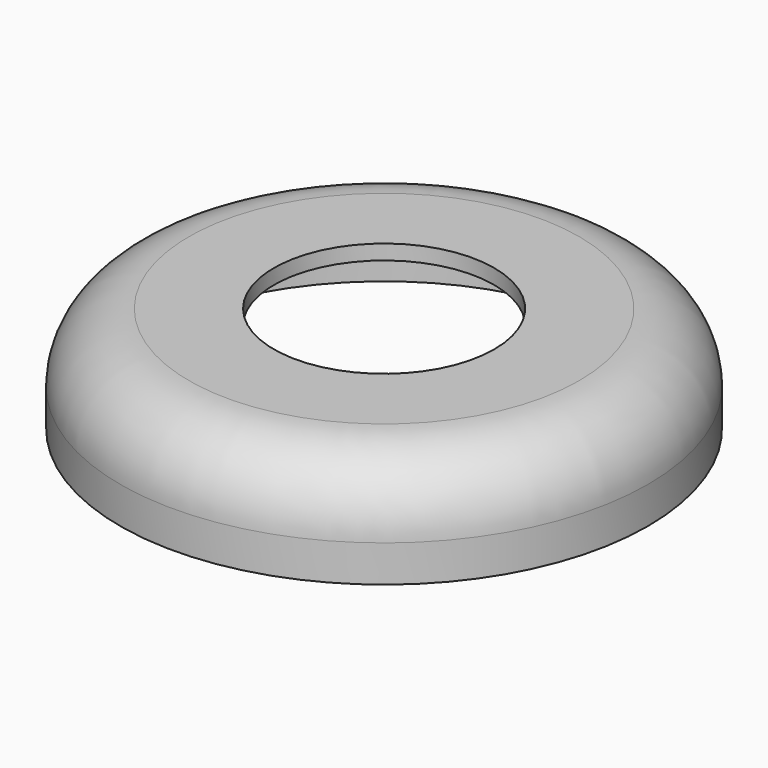
from build123d import *

# Parameters (mm, degrees)
F2_T     = -0.65
F3_R     = 4.8
F4_DEPTH = 4.601


with BuildPart() as f1:
    # F0 (on Front) → F1 (revolve)
    with BuildSketch(Plane.XZ):
        with BuildLine():
            Line((8.5, 0), (0, 0))
            Line((0, 0), (0, -4.6))
            Line((0, -4.6), (11.5, -4.6))
            Line((11.5, -4.6), (11.5, -3))
            ThreePointArc((11.5, -3), (10.62132, -0.87868), (8.5, 0))
        make_face()
    revolve(axis=Axis((0, 0, -2.3), (0, 0, -1)))

    # F2
    f2_openings = [f1.faces().sort_by_distance(p)[0] for p in [
        (0, 0, -4.6),
    ]]
    offset(amount=F2_T, openings=f2_openings)

    # F3 (on face) → F4 (cut, through all)
    with BuildSketch(Plane.XY):
        Circle(F3_R)
    extrude(amount=-F4_DEPTH, mode=Mode.SUBTRACT)


solid = f1.part
